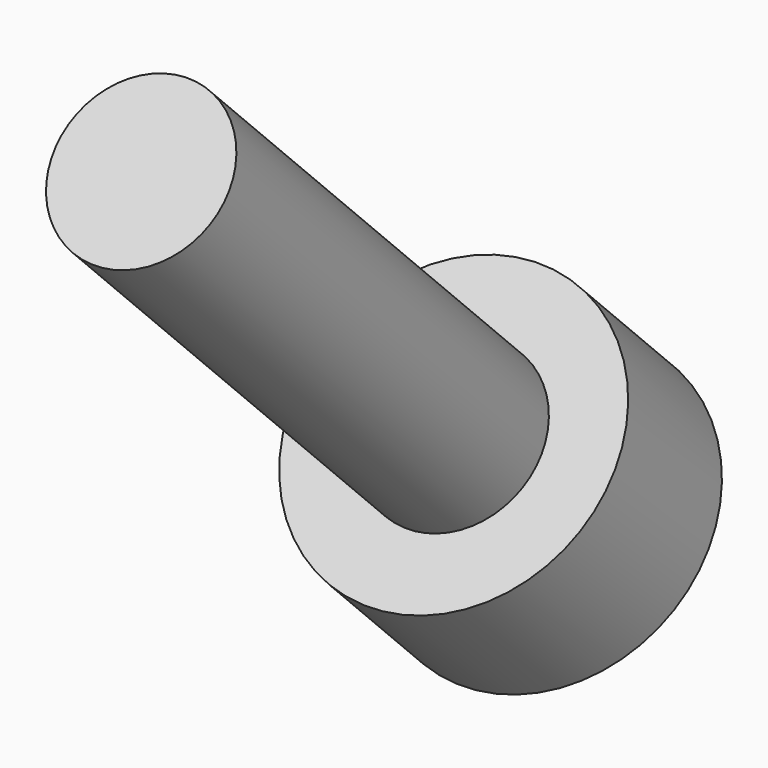
from build123d import *

# Parameters (mm, degrees)
SKETCH020_R             = 2.75
PAD008_DEPTH            = 3
SKETCH001_R             = 1.5
PAD009_DEPTH            = 10
POCKET011_DEPTH         = 4
BODY003_PLACEMENT_ANGLE = 225


with BuildPart() as part:
    # Sketch020 → Pad008 (new body)
    with BuildSketch(Plane.XY):
        Circle(SKETCH020_R)
    extrude(amount=PAD008_DEPTH)

    # Sketch001 (on Face2 of Pad008) → Pad009 (join)
    with BuildSketch(Plane(origin=(0, 0, 0), x_dir=(1, 0, 0), z_dir=(0, 0, -1))):
        Circle(SKETCH001_R)
    extrude(amount=PAD009_DEPTH)

    # Sketch021 (on DatumPlane) → Pocket011 (cut)
    with BuildSketch(Plane.XY.offset(3)):
        Polygon((0.721688, -1.25), (1.443376, 0), (0.721688, 1.25), (-0.721688, 1.25), (-1.443376, 0), (-0.721688, -1.25), align=None)
    extrude(amount=-POCKET011_DEPTH, mode=Mode.SUBTRACT)


with BuildPart() as part_1:
    # Body003 placement: moved
    add(part.part.moved(Location((-6.5, -61.581981, 5.727565))).rotate(Axis((-6.5, -61.581981, 5.727565), (1, 0, 0)), BODY003_PLACEMENT_ANGLE))


solid = part_1.part
